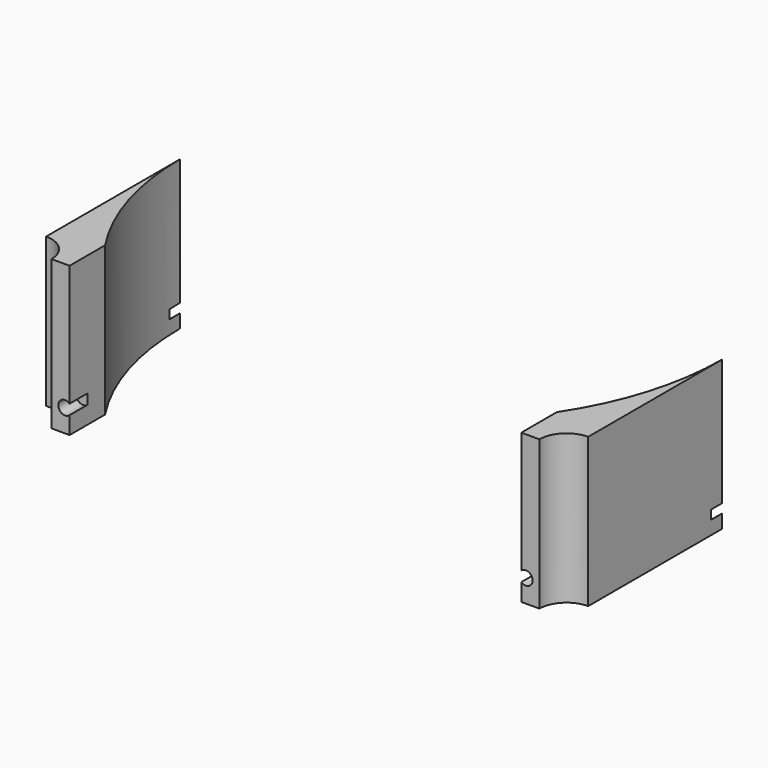
from build123d import *

# Parameters (mm, degrees)
CYLINDER322_R               = 1.5
CYLINDER322_DEPTH           = 20
CYLINDER321_R               = 1.5
CYLINDER321_DEPTH           = 22
BOX111_W                    = 6
BOX111_H                    = 10
BOX111_DEPTH                = 2
BOX111_PLACEMENT_ANGLE      = 225
BOX112_W                    = 6
BOX112_H                    = 10
BOX112_DEPTH                = 2
BOX113_W                    = 6
BOX113_H                    = 10
BOX113_DEPTH                = 2
BOX113_PLACEMENT_ANGLE      = 45
BOX114_W                    = 6
BOX114_H                    = 10
BOX114_DEPTH                = 2
BOX115_W                    = 6
BOX115_H                    = 10
BOX115_DEPTH                = 2
BOX115_PLACEMENT_ANGLE      = 45
BOX116_W                    = 6
BOX116_H                    = 10
BOX116_DEPTH                = 2
BOX117_W                    = 6
BOX117_H                    = 10
BOX117_DEPTH                = 2
BOX117_PLACEMENT_ANGLE      = 135
BOX110_W                    = 6
BOX110_H                    = 10
BOX110_DEPTH                = 2
CYLINDER320_R               = 60
CYLINDER320_DEPTH           = 33
CYLINDER312_R               = 6
CYLINDER312_DEPTH           = 33
CYLINDER310_R               = 6
CYLINDER310_DEPTH           = 33
CYLINDER318_R               = 1.5
CYLINDER318_DEPTH           = 50
CYLINDER318_PLACEMENT_ANGLE = 45
CYLINDER314_R               = 1.5
CYLINDER314_DEPTH           = 50
CYLINDER311_R               = 1.5
CYLINDER311_DEPTH           = 50
CYLINDER311_PLACEMENT_ANGLE = 135
CYLINDER315_R               = 1.5
CYLINDER315_DEPTH           = 50
CYLINDER313_R               = 1.5
CYLINDER313_DEPTH           = 50
CYLINDER313_PLACEMENT_ANGLE = 225
CYLINDER316_R               = 1.5
CYLINDER316_DEPTH           = 50
CYLINDER319_R               = 1.5
CYLINDER319_DEPTH           = 50
CYLINDER319_PLACEMENT_ANGLE = 45
CYLINDER317_R               = 1.5
CYLINDER317_DEPTH           = 50
BOX118_W                    = 10
BOX118_H                    = 43
BOX118_DEPTH                = 33
BOX119_W                    = 10
BOX119_H                    = 43
BOX119_DEPTH                = 33


with BuildPart() as obj1:
    # Cylinder322 → Cylinder322 (new body)
    with BuildSketch(Plane(origin=(51, -40, 25), x_dir=(1, 0, 0), z_dir=(0, -1, 0))):
        Circle(CYLINDER322_R)
    extrude(amount=CYLINDER322_DEPTH)


with BuildPart() as compound247:
    # Cylinder321 → Cylinder321 (new body)
    with BuildSketch(Plane(origin=(-51, -40, 25), x_dir=(1, 0, 0), z_dir=(0, -1, 0))):
        Circle(CYLINDER321_R)
    extrude(amount=CYLINDER321_DEPTH)

    # Compound247: union obj1
    add(obj1.part)


with BuildPart() as compound247_1:
    # Compound247 placement: moved
    add(compound247.part.moved(Location((0, 2, 0))))


with BuildPart() as krychle111:
    # Box111 → Box111 (new body)
    with BuildSketch(Plane.XY):
        with Locations((3, 5)):
            Rectangle(BOX111_W, BOX111_H)
    extrude(amount=BOX111_DEPTH)


with BuildPart() as krychle111_1:
    # Box111 placement: moved
    add(krychle111.part.moved(Location((-41.7193, 45.961941, 23))).rotate(Axis((-41.7193, 45.961941, 23), (0, 0, 1)), BOX111_PLACEMENT_ANGLE))


with BuildPart() as krychle112:
    # Box112 → Box112 (new body)
    with BuildSketch(Plane(origin=(-62, 3, 23), x_dir=(0, -1, 0), z_dir=(0, 0, 1))):
        with Locations((3, 5)):
            Rectangle(BOX112_W, BOX112_H)
    extrude(amount=BOX112_DEPTH)


with BuildPart() as krychle113:
    # Box113 → Box113 (new body)
    with BuildSketch(Plane.XY):
        with Locations((3, 5)):
            Rectangle(BOX113_W, BOX113_H)
    extrude(amount=BOX113_DEPTH)


with BuildPart() as krychle113_1:
    # Box113 placement: moved
    add(krychle113.part.moved(Location((-45.961941, -41.7193, 23))).rotate(Axis((-45.961941, -41.7193, 23), (0, 0, -1)), BOX113_PLACEMENT_ANGLE))


with BuildPart() as krychle114:
    # Box114 → Box114 (new body)
    with BuildSketch(Plane(origin=(-3, -62, 23), x_dir=(1, 0, 0), z_dir=(0, 0, 1))):
        with Locations((3, 5)):
            Rectangle(BOX114_W, BOX114_H)
    extrude(amount=BOX114_DEPTH)


with BuildPart() as krychle115:
    # Box115 → Box115 (new body)
    with BuildSketch(Plane.XY):
        with Locations((3, 5)):
            Rectangle(BOX115_W, BOX115_H)
    extrude(amount=BOX115_DEPTH)


with BuildPart() as krychle115_1:
    # Box115 placement: moved
    add(krychle115.part.moved(Location((41.7193, -45.961941, 23))).rotate(Axis((41.7193, -45.961941, 23), (0, 0, 1)), BOX115_PLACEMENT_ANGLE))


with BuildPart() as krychle116:
    # Box116 → Box116 (new body)
    with BuildSketch(Plane(origin=(62, -3, 23), x_dir=(0, 1, 0), z_dir=(0, 0, 1))):
        with Locations((3, 5)):
            Rectangle(BOX116_W, BOX116_H)
    extrude(amount=BOX116_DEPTH)


with BuildPart() as krychle117:
    # Box117 → Box117 (new body)
    with BuildSketch(Plane.XY):
        with Locations((3, 5)):
            Rectangle(BOX117_W, BOX117_H)
    extrude(amount=BOX117_DEPTH)


with BuildPart() as krychle117_1:
    # Box117 placement: moved
    add(krychle117.part.moved(Location((45.961941, 41.7193, 23))).rotate(Axis((45.961941, 41.7193, 23), (0, 0, 1)), BOX117_PLACEMENT_ANGLE))


with BuildPart() as compound243:
    # Box110 → Box110 (new body)
    with BuildSketch(Plane(origin=(3, 62, 23), x_dir=(-1, 0, 0), z_dir=(0, 0, 1))):
        with Locations((3, 5)):
            Rectangle(BOX110_W, BOX110_H)
    extrude(amount=BOX110_DEPTH)

    # Compound243: union Krychle111, Krychle112, Krychle113, Krychle114, Krychle115, Krychle116, Krychle117
    add(krychle111_1.part)
    add(krychle112.part)
    add(krychle113_1.part)
    add(krychle114.part)
    add(krychle115_1.part)
    add(krychle116.part)
    add(krychle117_1.part)


with BuildPart() as obj2:
    # Cylinder320 → Cylinder320 (new body)
    with BuildSketch(Plane.XY.offset(20)):
        Circle(CYLINDER320_R)
    extrude(amount=CYLINDER320_DEPTH)


with BuildPart() as obj3:
    # Cylinder312 → Cylinder312 (new body)
    with BuildSketch(Plane(origin=(-60, -43, 10), x_dir=(1, 0, 0), z_dir=(0, 0, 1))):
        Circle(CYLINDER312_R)
    extrude(amount=CYLINDER312_DEPTH)


with BuildPart() as compound246:
    # Cylinder310 → Cylinder310 (new body)
    with BuildSketch(Plane(origin=(60, -43, 10), x_dir=(1, 0, 0), z_dir=(0, 0, 1))):
        Circle(CYLINDER310_R)
    extrude(amount=CYLINDER310_DEPTH)

    # Compound246: union obj3
    add(obj3.part)


with BuildPart() as obj4:
    # Cylinder318 → Cylinder318 (new body)
    with BuildSketch(Plane.XY):
        Circle(CYLINDER318_R)
    extrude(amount=CYLINDER318_DEPTH)


with BuildPart() as obj4_1:
    # Cylinder318 placement: moved
    add(obj4.part.moved(Location((39.59798, -39.59798, 2))).rotate(Axis((39.59798, -39.59798, 2), (0, 0, 1)), CYLINDER318_PLACEMENT_ANGLE))


with BuildPart() as obj5:
    # Cylinder314 → Cylinder314 (new body)
    with BuildSketch(Plane(origin=(56, 0, 2), x_dir=(0, 1, 0), z_dir=(0, 0, 1))):
        Circle(CYLINDER314_R)
    extrude(amount=CYLINDER314_DEPTH)


with BuildPart() as obj6:
    # Cylinder311 → Cylinder311 (new body)
    with BuildSketch(Plane.XY):
        Circle(CYLINDER311_R)
    extrude(amount=CYLINDER311_DEPTH)


with BuildPart() as obj6_1:
    # Cylinder311 placement: moved
    add(obj6.part.moved(Location((39.59798, 39.59798, 2))).rotate(Axis((39.59798, 39.59798, 2), (0, 0, 1)), CYLINDER311_PLACEMENT_ANGLE))


with BuildPart() as obj7:
    # Cylinder315 → Cylinder315 (new body)
    with BuildSketch(Plane(origin=(0, 56, 2), x_dir=(-1, 0, 0), z_dir=(0, 0, 1))):
        Circle(CYLINDER315_R)
    extrude(amount=CYLINDER315_DEPTH)


with BuildPart() as obj8:
    # Cylinder313 → Cylinder313 (new body)
    with BuildSketch(Plane.XY):
        Circle(CYLINDER313_R)
    extrude(amount=CYLINDER313_DEPTH)


with BuildPart() as obj8_1:
    # Cylinder313 placement: moved
    add(obj8.part.moved(Location((-39.59798, 39.59798, 2))).rotate(Axis((-39.59798, 39.59798, 2), (0, 0, 1)), CYLINDER313_PLACEMENT_ANGLE))


with BuildPart() as obj9:
    # Cylinder316 → Cylinder316 (new body)
    with BuildSketch(Plane(origin=(-56, 0, 2), x_dir=(0, -1, 0), z_dir=(0, 0, 1))):
        Circle(CYLINDER316_R)
    extrude(amount=CYLINDER316_DEPTH)


with BuildPart() as obj10:
    # Cylinder319 → Cylinder319 (new body)
    with BuildSketch(Plane.XY):
        Circle(CYLINDER319_R)
    extrude(amount=CYLINDER319_DEPTH)


with BuildPart() as obj10_1:
    # Cylinder319 placement: moved
    add(obj10.part.moved(Location((-39.59798, -39.59798, 2))).rotate(Axis((-39.59798, -39.59798, 2), (0, 0, -1)), CYLINDER319_PLACEMENT_ANGLE))


with BuildPart() as compound245:
    # Cylinder317 → Cylinder317 (new body)
    with BuildSketch(Plane(origin=(0, -56, 2), x_dir=(1, 0, 0), z_dir=(0, 0, 1))):
        Circle(CYLINDER317_R)
    extrude(amount=CYLINDER317_DEPTH)

    # Compound245: union obj4, obj5, obj6, obj7, obj8, obj9, obj10
    add(obj4_1.part)
    add(obj5.part)
    add(obj6_1.part)
    add(obj7.part)
    add(obj8_1.part)
    add(obj9.part)
    add(obj10_1.part)


with BuildPart() as krychle118:
    # Box118 → Box118 (new body)
    with BuildSketch(Plane(origin=(50, -43, 10), x_dir=(1, 0, 0), z_dir=(0, 0, 1))):
        with Locations((5, 21.5)):
            Rectangle(BOX118_W, BOX118_H)
    extrude(amount=BOX118_DEPTH)


with BuildPart() as cut135:
    # Box119 → Box119 (new body)
    with BuildSketch(Plane(origin=(-60, -43, 10), x_dir=(1, 0, 0), z_dir=(0, 0, 1))):
        with Locations((5, 21.5)):
            Rectangle(BOX119_W, BOX119_H)
    extrude(amount=BOX119_DEPTH)

    # Compound244: union Krychle118
    add(krychle118.part)

    # Cut132: cut Compound245
    add(compound245.part, mode=Mode.SUBTRACT)

    # Cut131: cut Compound246
    add(compound246.part, mode=Mode.SUBTRACT)


with BuildPart() as cut135_1:
    # Cut131 placement: moved
    add(cut135.part.moved(Location((0, 0, 10))))

    # Cut133: cut obj2
    add(obj2.part, mode=Mode.SUBTRACT)

    # Cut134: cut Compound243
    add(compound243.part, mode=Mode.SUBTRACT)

    # Cut135: cut Compound247
    add(compound247_1.part, mode=Mode.SUBTRACT)


with BuildPart() as cut135_2:
    # Cut135 placement: moved
    add(cut135_1.part.moved(Location((0, 0, 16))))


solid = cut135_2.part
